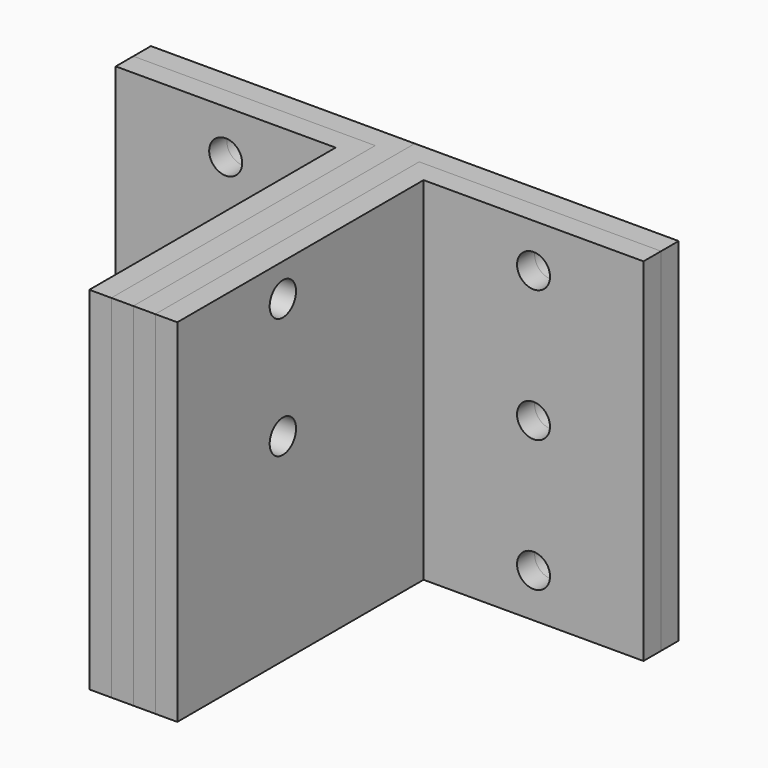
from build123d import *

# Parameters (mm, degrees)
F1_DEPTH = 50.8
F3_DEPTH = 50.8
F5_DEPTH = 50.8
F6_R     = 4.7625
F7_DEPTH = 101.601
F8_R     = 4.7625
F9_DEPTH = 88.901


with BuildPart() as f1:
    # F0 (on Top) → F1 (new body, symmetric)
    with BuildSketch(Plane.XY):
        Polygon((76.2, 0), (0, 0), (0, -101.6), (6.35, -101.6), (6.35, -6.35), (76.2, -6.35), align=None)
    extrude(amount=F1_DEPTH, both=True)


with BuildPart() as f3:
    # F2 (on Top) → F3 (new body, symmetric)
    with BuildSketch(Plane.XY):
        Polygon((0, -101.6), (0, 0), (-76.2, 0), (-76.2, -6.35), (-6.35, -6.35), (-6.35, -101.6), align=None)
    extrude(amount=F3_DEPTH, both=True)


with BuildPart() as f5:
    # F4 (on Top) → F5 (new body, symmetric)
    with BuildSketch(Plane.XY):
        Polygon((-6.35, -101.6), (-6.35, -6.35), (-76.2, -6.35), (-76.2, -12.7), (-12.7, -12.7), (-12.7, -101.6), align=None)
        Polygon((6.35, -6.35), (6.35, -101.6), (12.7, -101.6), (12.7, -12.7), (76.2, -12.7), (76.2, -6.35), align=None)
    extrude(amount=F5_DEPTH, both=True)


with BuildPart() as f7_tool:
    # F6 (on Front) → F7 (new body, through all)
    with BuildSketch(Plane.XZ):
        with Locations((44.45, 38.1)):
            Circle(F6_R)
        with Locations((44.45, 0)):
            Circle(F6_R)
        with Locations((44.45, -38.1)):
            Circle(F6_R)
        with Locations((-44.45, 38.1)):
            Circle(F6_R)
        with Locations((-44.45, 0)):
            Circle(F6_R)
        with Locations((-44.45, -38.1)):
            Circle(F6_R)
    extrude(amount=F7_DEPTH)


with BuildPart() as f1_1:
    add(f1.part)

    # F7: cut by f7_tool
    add(f7_tool.part, mode=Mode.SUBTRACT)


with BuildPart() as f3_1:
    add(f3.part)

    # F7: cut by f7_tool
    add(f7_tool.part, mode=Mode.SUBTRACT)


with BuildPart() as f5_1:
    add(f5.part)

    # F7: cut by f7_tool
    add(f7_tool.part, mode=Mode.SUBTRACT)


with BuildPart() as f9_tool:
    # F8 (on face) → F9 (new body, through all)
    with BuildSketch(Plane.YZ.offset(12.7)):
        with Locations((-63.5, 41.275)):
            Circle(F8_R)
        with Locations((-63.5, 6.35)):
            Circle(F8_R)
    extrude(amount=-F9_DEPTH)


with BuildPart() as f1_2:
    add(f1_1.part)

    # F9: cut by f9_tool
    add(f9_tool.part, mode=Mode.SUBTRACT)


with BuildPart() as f3_2:
    add(f3_1.part)

    # F9: cut by f9_tool
    add(f9_tool.part, mode=Mode.SUBTRACT)


with BuildPart() as f5_2:
    add(f5_1.part)

    # F9: cut by f9_tool
    add(f9_tool.part, mode=Mode.SUBTRACT)


solid = Compound([f1_2.part, f3_2.part, f5_2.part])
